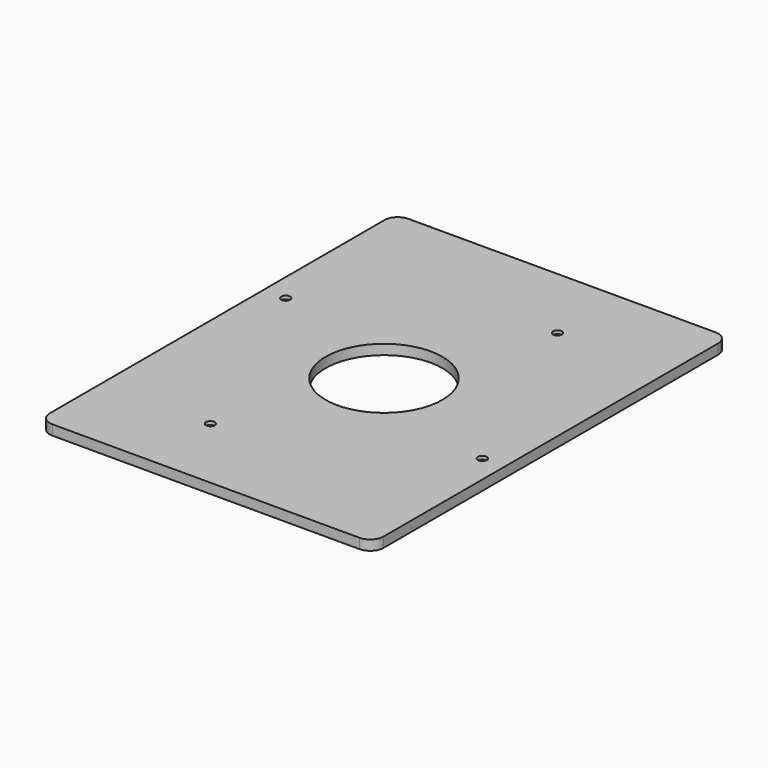
from build123d import *

# Parameters (mm, degrees)
F0_R     = 2
F0_R_2   = 26.25
F1_DEPTH = 4.5
F2_SIZE  = 3


with BuildPart() as f1:
    # F0 (on Top) → F1 (new body)
    with BuildSketch(Plane.XY):
        with BuildLine():
            Line((69, 100), (-69, 100))
            ThreePointArc((-69, 100), (-73.242641, 98.242641), (-75, 94))
            Line((-75, 94), (-75, -94))
            ThreePointArc((-75, -94), (-73.242641, -98.242641), (-69, -100))
            Line((-69, -100), (69, -100))
            ThreePointArc((69, -100), (73.242641, -98.242641), (75, -94))
            Line((75, -94), (75, 94))
            ThreePointArc((75, 94), (73.242641, 98.242641), (69, 100))
        make_face()
        with Locations((-26, -65)):
            Circle(F0_R, mode=Mode.SUBTRACT)
        with Locations((65, -26)):
            Circle(F0_R, mode=Mode.SUBTRACT)
        with Locations((-65, 26)):
            Circle(F0_R, mode=Mode.SUBTRACT)
        Circle(F0_R_2, mode=Mode.SUBTRACT)
        with Locations((26, 65)):
            Circle(F0_R, mode=Mode.SUBTRACT)
    extrude(amount=F1_DEPTH)

    # F2
    f2_edges = [f1.edges().sort_by_distance(p)[0] for p in [
        (-67, 26, 0),
        (-28, -65, 0),
        (63, -26, 0),
        (24, 65, 0),
    ]]
    chamfer(f2_edges, length=F2_SIZE)


solid = f1.part
